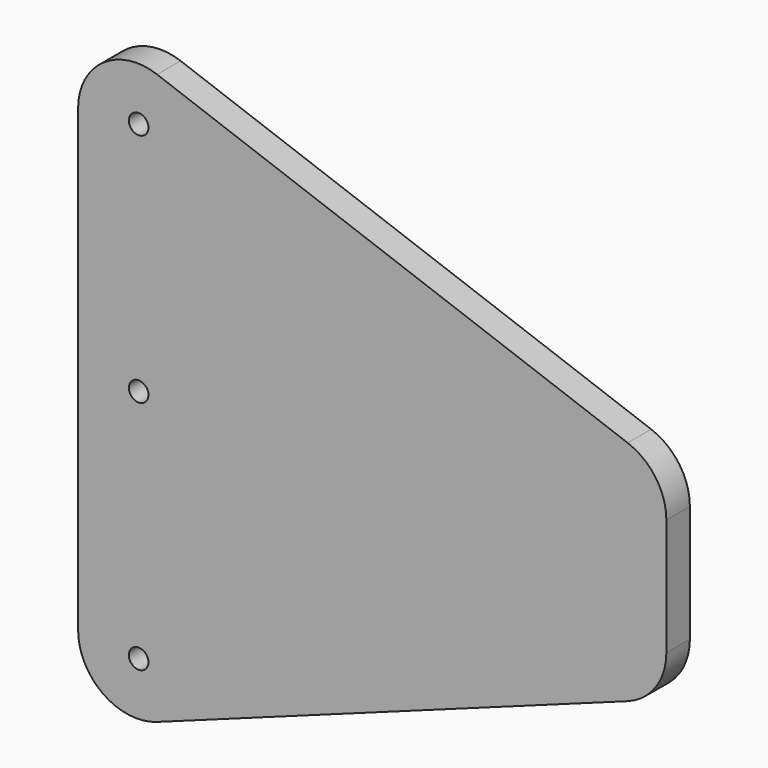
from build123d import *

# Parameters (mm, degrees)
F1_DEPTH = 9.525
F3_D     = 6.35


with BuildPart() as f1:
    # F0 (on Front) → F1 (new body)
    with BuildSketch(Plane.XZ):
        with BuildLine():
            Line((0, 175.99378), (0, 27.20622))
            ThreePointArc((0, 27.20622), (8.123369, 11.601373), (25.565484, 9.305075))
            Line((25.565484, 9.305075), (177.965484, 64.774139))
            ThreePointArc((177.965484, 64.774139), (187.054846, 71.748652), (190.5, 82.675283))
            Line((190.5, 82.675283), (190.5, 120.524717))
            ThreePointArc((190.5, 120.524717), (187.054846, 131.451348), (177.965484, 138.425861))
            Line((177.965484, 138.425861), (25.565484, 193.894925))
            ThreePointArc((25.565484, 193.894925), (8.123369, 191.598627), (0, 175.99378))
        make_face()
    extrude(amount=F1_DEPTH)

    # F3 (through all)
    with Locations(Plane.XZ.offset(9.525)):
        with Locations((19.602309, 177.8), (19.602309, 101.6), (19.602309, 25.4)):
            Hole(F3_D / 2)


solid = f1.part
